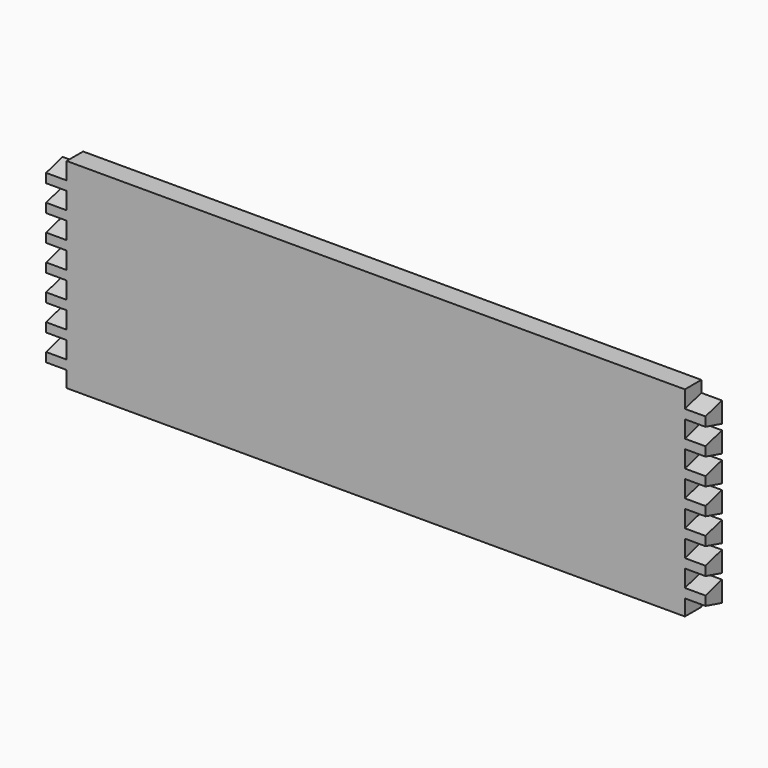
from build123d import *

# Parameters (mm, degrees)
F0_W     = 288.5
F0_H     = 175
F1_DEPTH = 9
F3_DEPTH = 18
F5_W     = 557
F5_H     = 6
F6_DEPTH = 4


with BuildPart() as f1:
    # F0 (on Front) → F1 (new body, symmetric)
    with BuildSketch(Plane.XZ):
        with Locations((144.25, 87.5)):
            Rectangle(F0_W, F0_H)
    extrude(amount=F1_DEPTH, both=True)

    # F2 (on face) → F3 (cut)
    with BuildSketch(Plane.YZ.offset(288.5)):
        Polygon((-9, 175), (-9, 160), (9, 165), (9, 175), align=None)
        Polygon((9, 147), (-9, 152), (-9, 137), (9, 142), align=None)
        Polygon((9, 101), (-9, 106), (-9, 91), (9, 96), align=None)
        Polygon((9, 78), (-9, 83), (-9, 68), (9, 73), align=None)
        Polygon((9, 55), (-9, 60), (-9, 45), (9, 50), align=None)
        Polygon((9, 32), (-9, 37), (-9, 22), (9, 27), align=None)
        Polygon((9, 9), (-9, 14), (-9, 0), (9, 0), align=None)
        Polygon((9, 124), (-9, 129), (-9, 114), (9, 119), align=None)
    extrude(amount=-F3_DEPTH, mode=Mode.SUBTRACT)

    # F4: F1 across plane


with BuildPart() as f1_1:
    add(f1.part)
    add(f1.part.mirror(Plane.YZ))

    # F5 (on face) → F6 (cut)
    with BuildSketch(Plane(origin=(0, 9, 0), x_dir=(-1, 0, 0), z_dir=(0, 1, 0))):
        with Locations((0, 19)):
            Rectangle(F5_W, F5_H)
    extrude(amount=-F6_DEPTH, mode=Mode.SUBTRACT)


solid = f1_1.part
